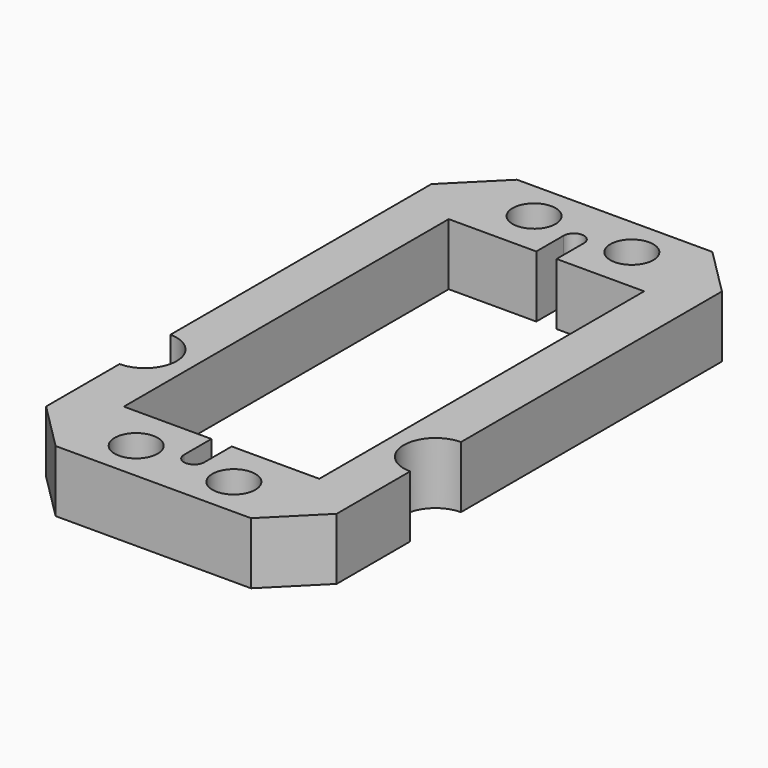
from build123d import *

# Parameters (mm, degrees)
F0_R     = 2.15265
F1_DEPTH = 6.17728
F2_SIZE  = 4.7625


with BuildPart() as f1:
    # F0 (on Top) → F1 (new body)
    with BuildSketch(Plane.XY):
        with BuildLine():
            ThreePointArc((-14.5415, -8.55411), (-11.3665, -11.72911), (-14.5415, -14.90411))
            Line((-14.5415, -14.90411), (-14.5415, -28.86075))
            Line((-14.5415, -28.86075), (14.5415, -28.86075))
            Line((14.5415, -28.86075), (14.5415, -14.90411))
            ThreePointArc((14.5415, -14.90411), (11.3665, -11.72911), (14.5415, -8.55411))
            Line((14.5415, -8.55411), (14.5415, 28.86075))
            Line((14.5415, 28.86075), (-14.5415, 28.86075))
            Line((-14.5415, 28.86075), (-14.5415, -8.55411))
        make_face()
        with Locations((-4.8895, -24.892)):
            Circle(F0_R, mode=Mode.SUBTRACT)
        with Locations((4.8895, -24.892)):
            Circle(F0_R, mode=Mode.SUBTRACT)
        with Locations((-4.8895, 24.892)):
            Circle(F0_R, mode=Mode.SUBTRACT)
        with BuildLine():
            Line((9.779, 20.32), (9.779, -20.32))
            Line((9.779, -20.32), (1.016, -20.32))
            Line((1.016, -20.32), (1.016, -23.749))
            ThreePointArc((1.016, -23.749), (0, -24.765), (-1.016, -23.749))
            Line((-1.016, -23.749), (-1.016, -20.32))
            Line((-1.016, -20.32), (-9.779, -20.32))
            Line((-9.779, -20.32), (-9.779, 20.32))
            Line((-9.779, 20.32), (-1.016, 20.32))
            Line((-1.016, 20.32), (-1.016, 23.749))
            ThreePointArc((-1.016, 23.749), (0, 24.765), (1.016, 23.749))
            Line((1.016, 23.749), (1.016, 20.32))
            Line((1.016, 20.32), (9.779, 20.32))
        make_face(mode=Mode.SUBTRACT)
        with Locations((4.8895, 24.892)):
            Circle(F0_R, mode=Mode.SUBTRACT)
    extrude(amount=F1_DEPTH)

    # F2
    f2_edges = [f1.edges().sort_by_distance(p)[0] for p in [
        (14.5415, -28.86075, 3.08864),
        (14.5415, 28.86075, 3.08864),
        (-14.5415, 28.86075, 3.08864),
        (-14.5415, -28.86075, 3.08864),
    ]]
    chamfer(f2_edges, length=F2_SIZE)


solid = f1.part
